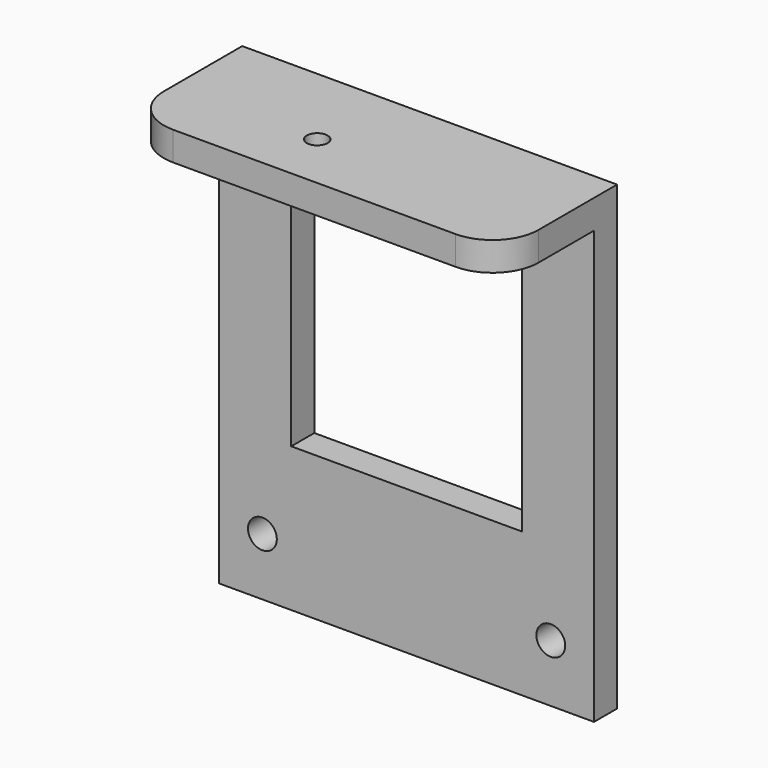
from build123d import *

# Parameters (mm, degrees)
F0_W     = 41.275
F0_H     = 50.8
F0_R     = 1.5875
F1_DEPTH = 3.175
F2_W     = 41.275
F2_H     = 3.175
F3_DEPTH = 12.7
F5_W     = 25.4
F5_H     = 28.575
F6_DEPTH = 3.175
F4_R     = 1.143
F7_DEPTH = 25.4
F8_R     = 5.08
F9_R     = 5.08


with BuildPart() as f1:
    # F0 (on Front) → F1 (new body)
    with BuildSketch(Plane.XZ):
        with Locations((-1.74602, 12.366909)):
            Rectangle(F0_W, F0_H)
        with Locations((-17.62102, -6.683091)):
            Circle(F0_R, mode=Mode.SUBTRACT)
        with Locations((14.12898, -6.683091)):
            Circle(F0_R, mode=Mode.SUBTRACT)
        with Locations((-1.74602, 12.366909)):
            Rectangle(F0_W, F0_H)
        with Locations((-17.62102, -6.683091)):
            Circle(F0_R, mode=Mode.SUBTRACT)
        with Locations((14.12898, -6.683091)):
            Circle(F0_R, mode=Mode.SUBTRACT)
    extrude(amount=F1_DEPTH)

    # F2 (on face) → F3 (join)
    with BuildSketch(Plane.XZ.offset(3.175)):
        with Locations((-1.74602, 36.179409)):
            Rectangle(F2_W, F2_H)
        with Locations((-1.74602, 36.179409)):
            Rectangle(F2_W, F2_H)
    extrude(amount=F3_DEPTH)

    # F5 (on face) → F6 (cut)
    with BuildSketch(Plane.XZ.offset(3.175)):
        with Locations((-1.74602, 17.129409)):
            Rectangle(F5_W, F5_H)
    extrude(amount=-F6_DEPTH, mode=Mode.SUBTRACT)

    # F4 (on face) → F7 (cut)
    with BuildSketch(Plane.XY.offset(37.766909)):
        with Locations((-6.50852, -9.525)):
            Circle(F4_R)
    extrude(amount=-F7_DEPTH, mode=Mode.SUBTRACT)

    # F8
    f8_edges = [f1.edges().sort_by_distance(p)[0] for p in [
        (-22.38352, -15.875, 36.179409),
    ]]
    fillet(f8_edges, radius=F8_R)

    # F9
    f9_edges = [f1.edges().sort_by_distance(p)[0] for p in [
        (18.89148, -15.875, 36.179409),
    ]]
    fillet(f9_edges, radius=F9_R)


solid = f1.part
